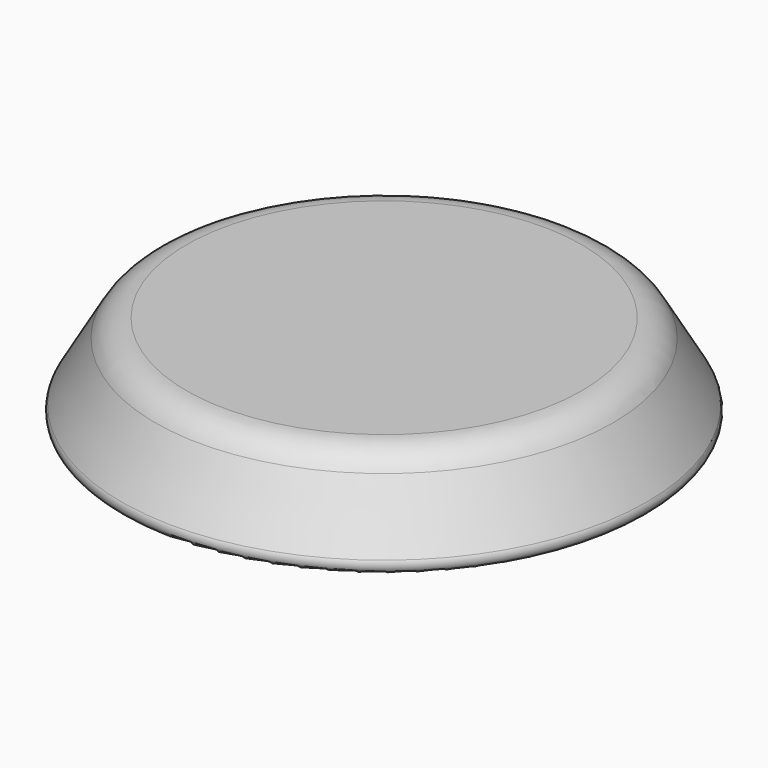
from build123d import *

# Parameters (mm, degrees)
F0_R     = 19.05
F1_DEPTH = 6.35
F1_TAPER = 30
F2_R     = 2.54
F3_R     = 0.635


with BuildPart() as f1:
    # F0 (on Top) → F1 (new body)
    with BuildSketch(Plane.XY):
        Circle(F0_R)
    extrude(amount=F1_DEPTH, taper=F1_TAPER)

    # F2
    f2_edges = [f1.edges().sort_by_distance(p)[0] for p in [
        (-15.383826, 0, 6.35),
    ]]
    fillet(f2_edges, radius=F2_R)

    # F3
    f3_edges = [f1.edges().sort_by_distance(p)[0] for p in [
        (-19.05, 0, 0),
    ]]
    fillet(f3_edges, radius=F3_R)


solid = f1.part
